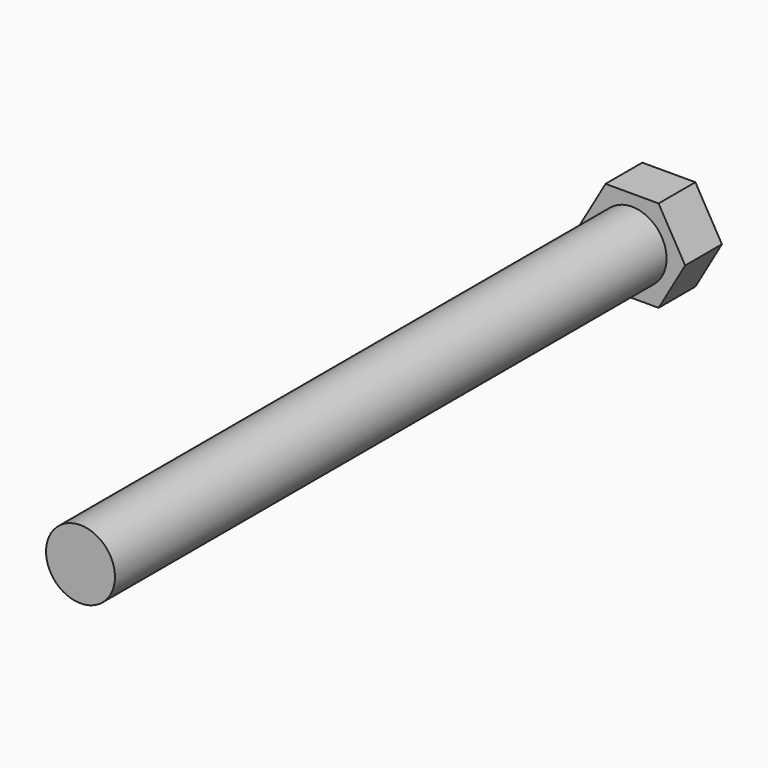
from build123d import *

# Parameters (mm, degrees)
F0_R     = 4.7625
F1_DEPTH = 101.6
F3_DEPTH = 6.35


with BuildPart() as f1:
    # F0 (on Front) → F1 (new body)
    with BuildSketch(Plane.XZ):
        Circle(F0_R)
    extrude(amount=F1_DEPTH)

    # F2 (on Front) → F3 (join)
    with BuildSketch(Plane.XZ):
        Polygon((-3.666174, -6.35), (3.666174, -6.35), (7.332348, 0), (3.666174, 6.35), (-3.666174, 6.35), (-7.332348, 0), align=None)
    extrude(amount=F3_DEPTH)


solid = f1.part
